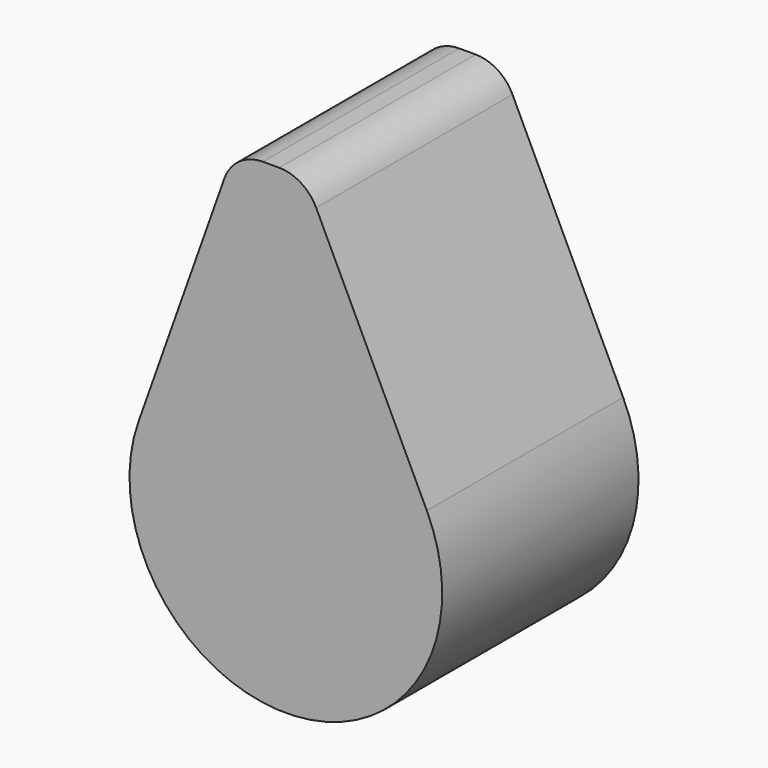
from build123d import *

# Parameters (mm, degrees)
F1_DEPTH = 38.1


with BuildPart() as f1:
    # F0 (on Front) → F1 (new body)
    with BuildSketch(Plane.XZ):
        with BuildLine():
            Line((-9.545467, 45.686726), (-22.876969, 8.118049))
            ThreePointArc((-22.876969, 8.118049), (1.290503, -24.240319), (21.885724, 10.50112))
            Line((21.885724, 10.50112), (4.703998, 46.310113))
            ThreePointArc((4.703998, 46.310113), (2.361158, 48.937411), (-1.021085, 49.913127))
            Line((-1.021085, 49.913127), (-3.561085, 49.913127))
            ThreePointArc((-3.561085, 49.913127), (-7.224256, 48.750002), (-9.545467, 45.686726))
        make_face()
    extrude(amount=F1_DEPTH)


solid = f1.part
